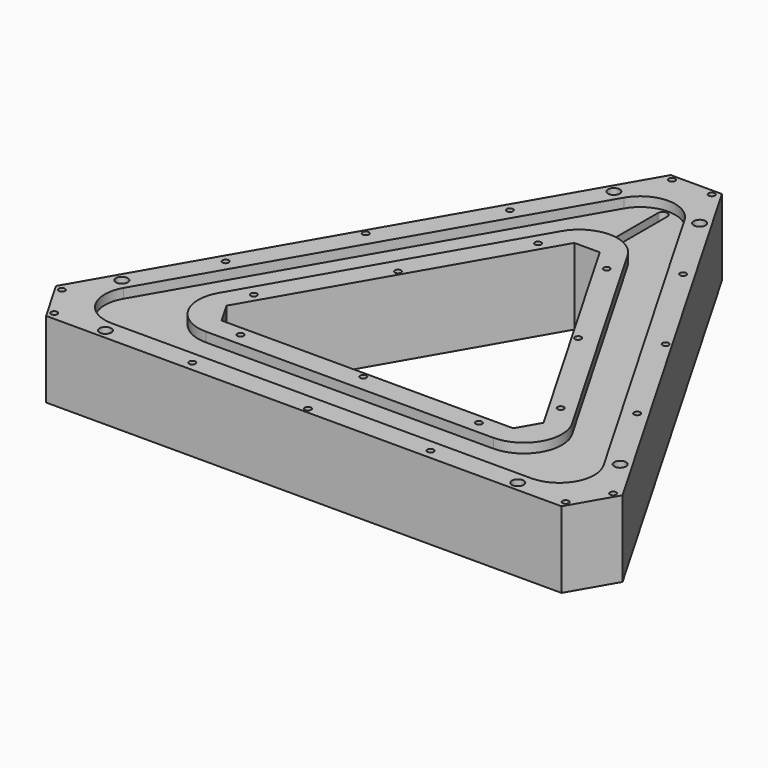
from build123d import *

# Parameters (mm, degrees)
PAD_DEPTH             = 24
POCKET_DEPTH          = 3
SKETCH002_W           = 70
SKETCH002_H           = 18.5
POCKET001_DEPTH       = 18
POLARPATTERN_COUNT    = 3
POCKET002_DEPTH       = 6
CHAMFER_SIZE          = 8
FILLET_R              = 13
FILLET001_R           = 11
CHAMFER001_SIZE       = 16.1
FILLET002_R           = 11
FILLET003_R           = 12
POCKET003_DEPTH       = 6
POCKET004_DEPTH       = 18
POCKET005_DEPTH       = 21.001
SKETCH007_W           = 15.5
SKETCH007_H           = 15
POCKET006_DEPTH       = 5
SKETCH010_W           = 13.6
SKETCH010_H           = 9
POCKET009_DEPTH       = 15.5
POCKET010_DEPTH       = 3
SKETCH012_R           = 1.85
SKETCH012_R_2         = 0.99
POCKET011_DEPTH       = 498.0492855781
POLARPATTERN001_COUNT = 3
POCKET012_DEPTH       = 12
POCKET013_DEPTH       = 3
POCKET014_DEPTH       = 3
FILLET004_R           = 2
FILLET005_R           = 1.5
FILLET006_R           = 11


with BuildPart() as part:
    # Sketch → Pad (new body)
    with BuildSketch(Plane.XY):
        Polygon((0, 112.2094915052), (-97.1762701892, -56.1047457526), (97.1762701892, -56.1047457526), align=None)
        Polygon((0, 62.2094915052), (-53.875, -31.1047457526), (53.875, -31.1047457526), align=None, mode=Mode.SUBTRACT)
    extrude(amount=PAD_DEPTH)

    # Sketch001 (on Face8 of Pad) → Pocket (cut)
    with BuildSketch(Plane.XY.offset(24)):
        Polygon((0, 98.2094915052), (-85.0519145362, -49.1047457526), (85.0519145362, -49.1047457526), align=None)
        Polygon((0, 76.2094915052), (-65.999355653, -38.1047457526), (65.999355653, -38.1047457526), align=None, mode=Mode.SUBTRACT)
    extrude(amount=-POCKET_DEPTH, mode=Mode.SUBTRACT)

    # Sketch002 (on Face4 of Pocket) → Pocket001 (cut)
    with BuildSketch(Plane(origin=(0, 0, 0), x_dir=(1, 0, 0), z_dir=(0, 0, -1))):
        with Locations((0, 43.6047457526)):
            Rectangle(SKETCH002_W, SKETCH002_H)
    pocket001 = extrude(amount=-POCKET001_DEPTH, mode=Mode.SUBTRACT)

    # PolarPattern: Pocket001 ×3 about axis
    polarpattern_axis = Axis((0, 0, 0), (0, 0, -1))
    for i in range(1, POLARPATTERN_COUNT):
        add(pocket001.rotate(polarpattern_axis, i * 360 / POLARPATTERN_COUNT), mode=Mode.SUBTRACT)

    # Sketch003 (on Face4 of PolarPattern) → Pocket002 (cut)
    with BuildSketch(Plane(origin=(0, 0, 0), x_dir=(1, 0, 0), z_dir=(0, 0, -1))):
        Polygon((0, -100.2094915052), (86.7839653438, 50.1047457526), (-86.7839653438, 50.1047457526), align=None)
        Polygon((0, -74.2094915052), (64.2673048454, 37.1047457526), (-64.2673048454, 37.1047457526), align=None, mode=Mode.SUBTRACT)
    extrude(amount=-POCKET002_DEPTH, mode=Mode.SUBTRACT)

    # Chamfer
    chamfer_edges = [part.edges().sort_by_distance(p)[0] for p in [
        (-53.875, -31.104746, 12),
        (53.875, -31.104746, 12),
        (0, 62.209492, 12),
    ]]
    chamfer(chamfer_edges, length=CHAMFER_SIZE)

    # Fillet
    fillet_edges = [part.edges().sort_by_distance(p)[0] for p in [
        (0, 100.209492, 3),
        (-86.783965, -50.104746, 3),
        (86.783965, -50.104746, 3),
    ]]
    fillet(fillet_edges, radius=FILLET_R)

    # Fillet001
    fillet001_edges = [part.edges().sort_by_distance(p)[0] for p in [
        (0, 74.209492, 3),
        (64.267305, -37.104746, 3),
        (-64.267305, -37.104746, 3),
    ]]
    fillet(fillet001_edges, radius=FILLET001_R)

    # Chamfer001
    chamfer001_edges = [part.edges().sort_by_distance(p)[0] for p in [
        (97.17627, -56.104746, 12),
        (0, 112.209492, 12),
        (-97.17627, -56.104746, 12),
    ]]
    chamfer(chamfer001_edges, length=CHAMFER001_SIZE)

    # Fillet002
    fillet002_edges = [part.edges().sort_by_distance(p)[0] for p in [
        (0, 98.209492, 22.5),
        (-85.051915, -49.104746, 22.5),
        (85.051915, -49.104746, 22.5),
    ]]
    fillet(fillet002_edges, radius=FILLET002_R)

    # Fillet003
    fillet003_edges = [part.edges().sort_by_distance(p)[0] for p in [
        (65.999356, -38.104746, 22.5),
        (0, 76.209492, 22.5),
        (-65.999356, -38.104746, 22.5),
    ]]
    fillet(fillet003_edges, radius=FILLET003_R)

    # Sketch004 (on Face60 of Fillet003) → Pocket003 (cut)
    with BuildSketch(Plane(origin=(0, 0, 6), x_dir=(1, 0, 0), z_dir=(0, 0, -1))):
        Polygon((-8.75, -72.1664825043), (8.75, -72.1664825043), (8.75, -94.7664825043), (4, -94.7664825043), (4, -98.2664825043), (-4, -98.2664825043), (-4, -94.7664825043), (-8.75, -94.7664825043), align=None)
    extrude(amount=-POCKET003_DEPTH, mode=Mode.SUBTRACT)

    # Sketch005 (on Face29 of Pocket003) → Pocket004 (cut)
    with BuildSketch(Plane(origin=(0, 0, 0), x_dir=(1, 0, 0), z_dir=(0, 0, -1))):
        Polygon((46.1715988394, 38.9547457526), (68.6882593378, 51.9547457526), (79.3382593378, 33.508404652), (56.8215988394, 20.508404652), align=None)
    extrude(amount=-POCKET004_DEPTH, mode=Mode.SUBTRACT)

    # Sketch006 (on Face1 of Pocket004) → Pocket005 (cut, through all)
    with BuildSketch(Plane.XY.offset(21)):
        with BuildLine():
            ThreePointArc((1.5, 85.0404521425), (0, 86.5404521425), (-1.5, 85.0404521425))
            Line((-1.5, 85.0404521425), (-1.5, 66.0404521425))
            ThreePointArc((-1.5, 66.0404521425), (0, 64.5404521425), (1.5, 66.0404521425))
            Line((1.5, 85.0404521425), (1.5, 66.0404521425))
        make_face()
    extrude(amount=-POCKET005_DEPTH, mode=Mode.SUBTRACT)

    # Sketch007 (on Face24 of Pocket005) → Pocket006 (cut)
    with BuildSketch(Plane(origin=(-48.5881350946, 28.0523728763, 0), x_dir=(-0.5, -0.8660254038, 0), z_dir=(-0.8660254038, 0.5, 0))):
        with Locations((-47.3262701892, 13.5)):
            Rectangle(SKETCH007_W, SKETCH007_H)
    extrude(amount=-POCKET006_DEPTH, mode=Mode.SUBTRACT)

    # Sketch010 (on Face79 of Pocket006) → Pocket009 (cut)
    with BuildSketch(Plane(origin=(-44.2580080757, 25.5523728763, 0), x_dir=(-0.5, -0.8660254038, 0), z_dir=(-0.8660254038, 0.5, 0))):
        with Locations((-47.3262701892, 13.5)):
            Rectangle(SKETCH010_W, SKETCH010_H)
    extrude(amount=-POCKET009_DEPTH, mode=Mode.SUBTRACT)

    # Sketch011 (on Face21 of Pocket009) → Pocket010 (cut)
    with BuildSketch(Plane(origin=(0, 0, 6), x_dir=(1, 0, 0), z_dir=(0, 0, -1))):
        Polygon((-21.0413798427, -59.7570681827), (-11.6817654684, -54.3532923042), (-6.658482036, -63.0538744299), (-16.0180964103, -68.4576503084), align=None)
    extrude(amount=-POCKET010_DEPTH, mode=Mode.SUBTRACT)

    # Sketch012 (on Face54 of Pocket010) → Pocket011 (cut, through all)
    with BuildSketch(Plane(origin=(0, 0, 0), x_dir=(1, 0, 0), z_dir=(0, 0, -1))):
        with Locations((-13.5, -82.7032108255)):
            Circle(SKETCH012_R)
        with Locations((13.5, -82.7032108255)):
            Circle(SKETCH012_R)
        with Locations((-6.25, -96.5164825043)):
            Circle(SKETCH012_R_2)
        with Locations((6.25, -96.5164825043)):
            Circle(SKETCH012_R_2)
        with Locations((-27.2463245869, -59.0174730012)):
            Circle(SKETCH012_R_2)
        with Locations((-47.1862074814, -27.2405827309)):
            Circle(SKETCH012_R_2)
        with Locations((-64.7337931796, 5.9127272486)):
            Circle(SKETCH012_R_2)
        with Locations((-10.791841915, -49.5174730012)):
            Circle(SKETCH012_R_2)
        with Locations((-28.3394276132, -16.3641630217)):
            Circle(SKETCH012_R_2)
        with Locations((-48.2793105078, 15.4127272487)):
            Circle(SKETCH012_R_2)
    pocket011 = extrude(amount=-POCKET011_DEPTH, mode=Mode.SUBTRACT)

    # PolarPattern001: Pocket011 ×3 about axis
    polarpattern001_axis = Axis((0, 0, 0), (0, 0, -1))
    for i in range(1, POLARPATTERN001_COUNT):
        add(pocket011.rotate(polarpattern001_axis, i * 360 / POLARPATTERN001_COUNT), mode=Mode.SUBTRACT)

    # Sketch013 (on Face132 of PolarPattern001) → Pocket012 (cut)
    with BuildSketch(Plane(origin=(0, 0, 6), x_dir=(1, 0, 0), z_dir=(0, 0, -1))):
        Polygon((58.553649647, 21.508404652), (63.3167893678, 24.258404652), (66.3167893678, 19.0622522293), (61.553649647, 16.3122522293), align=None)
    extrude(amount=-POCKET012_DEPTH, mode=Mode.SUBTRACT)

    # Sketch014 (on Face127 of Pocket012) → Pocket013 (cut)
    with BuildSketch(Plane(origin=(0, 0, 6), x_dir=(1, 0, 0), z_dir=(0, 0, -1))):
        Polygon((-74.3478338252, 33.3748379063), (-65.8478338252, 48.0972697706), (-52.8574527684, 40.5972697706), (-61.3574527684, 25.8748379063), align=None)
    extrude(amount=-POCKET013_DEPTH, mode=Mode.SUBTRACT)

    # Sketch015 (on Face21 of Pocket013) → Pocket014 (cut)
    with BuildSketch(Plane(origin=(0, 0, 6), x_dir=(1, 0, 0), z_dir=(0, 0, -1))):
        with BuildLine():
            ThreePointArc((-8.75, -63.0538744299), (-13.3063040372, -67.6101784671), (-8.75, -72.1664825043))
            Line((-8.75, -72.1664825043), (8.75, -72.1664825043))
            ThreePointArc((8.75, -72.1664825043), (13.3063040372, -67.6101784671), (8.75, -63.0538744299))
            Line((-8.75, -63.0538744299), (8.75, -63.0538744299))
        make_face()
    extrude(amount=-POCKET014_DEPTH, mode=Mode.SUBTRACT)

    # Fillet004
    fillet004_edges = [part.edges().sort_by_distance(p)[0] for p in [
        (-13.243399, 66.855678, 7.5),
    ]]
    fillet(fillet004_edges, radius=FILLET004_R)

    # Fillet005
    fillet005_edges = [part.edges().sort_by_distance(p)[0] for p in [
        (-6.658482, 63.053874, 7.5),
    ]]
    fillet(fillet005_edges, radius=FILLET005_R)

    # Fillet006
    fillet006_edges = [part.edges().sort_by_distance(p)[0] for p in [
        (-8.75, 72.166483, 7.5),
        (8.75, 72.166483, 7.5),
    ]]
    fillet(fillet006_edges, radius=FILLET006_R)


solid = part.part
